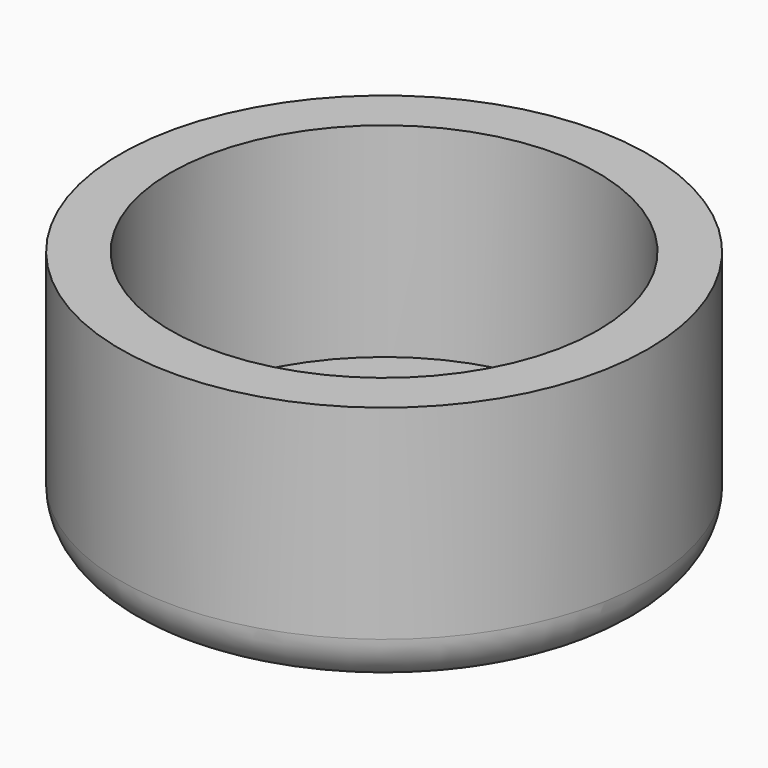
from build123d import *

# Parameters (mm, degrees)
F0_R     = 8.9
F1_DEPTH = 2
F0_R_2   = 11
F2_DEPTH = 10.5
F3_R     = 2


with BuildPart() as f1:
    # F0 (on Top) → F1 (new body)
    with BuildSketch(Plane.XY):
        Circle(F0_R)
    extrude(amount=F1_DEPTH)

    # F0 (on Top) → F2 (join)
    with BuildSketch(Plane.XY):
        Circle(F0_R_2)
        Circle(F0_R, mode=Mode.SUBTRACT)
    extrude(amount=F2_DEPTH)

    # F3
    f3_edges = [f1.edges().sort_by_distance(p)[0] for p in [
        (-11, 0, 0),
    ]]
    fillet(f3_edges, radius=F3_R)


solid = f1.part
